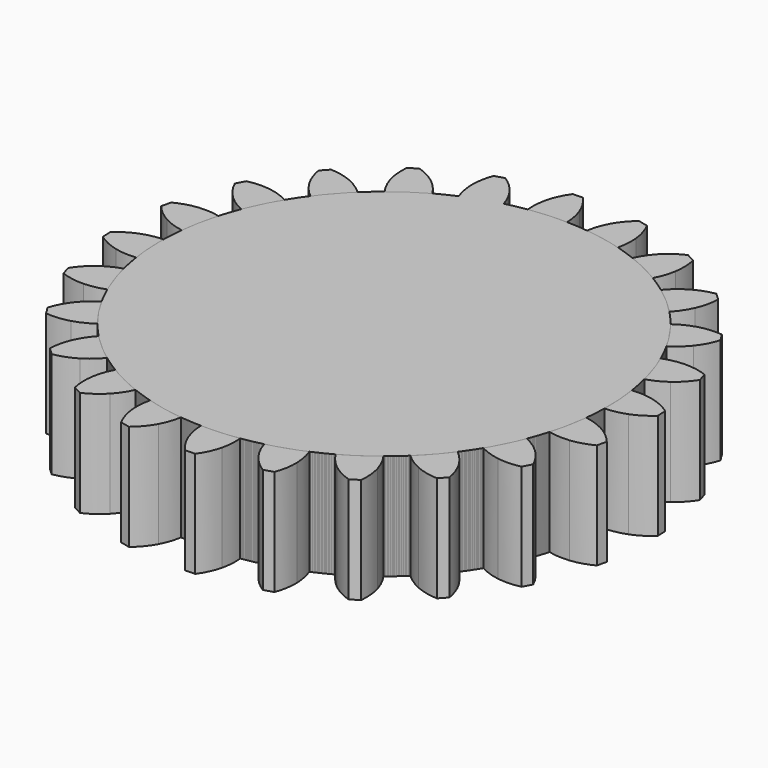
from build123d import *

# Parameters (mm, degrees)
F1_DEPTH = 25.4
F2_COUNT = 24
F2_ANGLE = 345


with BuildPart() as f1:
    # F0 (on Top) → F1 (new body)
    with BuildSketch(Plane.XY):
        with BuildLine():
            ThreePointArc((-7.985009, 53.124246), (-35.049844, -40.711844), (53.721, 0))
            ThreePointArc((53.721, 0), (38.332308, 37.637482), (0.982591, 53.712013))
            ThreePointArc((0.982591, 53.712013), (-3.513522, 53.605979), (-7.985009, 53.124246))
        make_face()
        with BuildLine():
            ThreePointArc((-7.985009, 53.124246), (-3.513522, 53.605979), (0.982591, 53.712013))
            ThreePointArc((0.982591, 53.712013), (0.701705, 56.234673), (0, 58.674))
            ThreePointArc((0, 58.674), (-1.253298, 61.16196), (-2.949539, 63.371817))
            ThreePointArc((-2.949539, 63.371817), (-4.125405, 63.316868), (-5.301921, 63.278271))
            ThreePointArc((-5.301921, 63.278271), (-6.724327, 60.837817), (-7.658494, 58.172036))
            ThreePointArc((-7.658494, 58.172036), (-8.035799, 55.661986), (-7.985009, 53.124246))
        make_face()
    extrude(amount=F1_DEPTH)


with BuildPart() as f2_1:
    # F2: instance of F1
    add(f1.part.rotate(Axis((0, 0, 0), (0, 0, -1)), 1 * F2_ANGLE / (F2_COUNT - 1)))


with BuildPart() as f2_2:
    # F2: instance of F1
    add(f1.part.rotate(Axis((0, 0, 0), (0, 0, -1)), 2 * F2_ANGLE / (F2_COUNT - 1)))


with BuildPart() as f2_3:
    # F2: instance of F1
    add(f1.part.rotate(Axis((0, 0, 0), (0, 0, -1)), 3 * F2_ANGLE / (F2_COUNT - 1)))


with BuildPart() as f2_4:
    # F2: instance of F1
    add(f1.part.rotate(Axis((0, 0, 0), (0, 0, -1)), 4 * F2_ANGLE / (F2_COUNT - 1)))


with BuildPart() as f2_5:
    # F2: instance of F1
    add(f1.part.rotate(Axis((0, 0, 0), (0, 0, -1)), 5 * F2_ANGLE / (F2_COUNT - 1)))


with BuildPart() as f2_6:
    # F2: instance of F1
    add(f1.part.rotate(Axis((0, 0, 0), (0, 0, -1)), 6 * F2_ANGLE / (F2_COUNT - 1)))


with BuildPart() as f2_7:
    # F2: instance of F1
    add(f1.part.rotate(Axis((0, 0, 0), (0, 0, -1)), 7 * F2_ANGLE / (F2_COUNT - 1)))


with BuildPart() as f2_8:
    # F2: instance of F1
    add(f1.part.rotate(Axis((0, 0, 0), (0, 0, -1)), 8 * F2_ANGLE / (F2_COUNT - 1)))


with BuildPart() as f2_9:
    # F2: instance of F1
    add(f1.part.rotate(Axis((0, 0, 0), (0, 0, -1)), 9 * F2_ANGLE / (F2_COUNT - 1)))


with BuildPart() as f2_10:
    # F2: instance of F1
    add(f1.part.rotate(Axis((0, 0, 0), (0, 0, -1)), 10 * F2_ANGLE / (F2_COUNT - 1)))


with BuildPart() as f2_11:
    # F2: instance of F1
    add(f1.part.rotate(Axis((0, 0, 0), (0, 0, -1)), 11 * F2_ANGLE / (F2_COUNT - 1)))


with BuildPart() as f2_12:
    # F2: instance of F1
    add(f1.part.rotate(Axis((0, 0, 0), (0, 0, -1)), 12 * F2_ANGLE / (F2_COUNT - 1)))


with BuildPart() as f2_13:
    # F2: instance of F1
    add(f1.part.rotate(Axis((0, 0, 0), (0, 0, -1)), 13 * F2_ANGLE / (F2_COUNT - 1)))


with BuildPart() as f2_14:
    # F2: instance of F1
    add(f1.part.rotate(Axis((0, 0, 0), (0, 0, -1)), 14 * F2_ANGLE / (F2_COUNT - 1)))


with BuildPart() as f2_15:
    # F2: instance of F1
    add(f1.part.rotate(Axis((0, 0, 0), (0, 0, -1)), 15 * F2_ANGLE / (F2_COUNT - 1)))


with BuildPart() as f2_16:
    # F2: instance of F1
    add(f1.part.rotate(Axis((0, 0, 0), (0, 0, -1)), 16 * F2_ANGLE / (F2_COUNT - 1)))


with BuildPart() as f2_17:
    # F2: instance of F1
    add(f1.part.rotate(Axis((0, 0, 0), (0, 0, -1)), 17 * F2_ANGLE / (F2_COUNT - 1)))


with BuildPart() as f2_18:
    # F2: instance of F1
    add(f1.part.rotate(Axis((0, 0, 0), (0, 0, -1)), 18 * F2_ANGLE / (F2_COUNT - 1)))


with BuildPart() as f2_19:
    # F2: instance of F1
    add(f1.part.rotate(Axis((0, 0, 0), (0, 0, -1)), 19 * F2_ANGLE / (F2_COUNT - 1)))


with BuildPart() as f2_20:
    # F2: instance of F1
    add(f1.part.rotate(Axis((0, 0, 0), (0, 0, -1)), 20 * F2_ANGLE / (F2_COUNT - 1)))


with BuildPart() as f2_21:
    # F2: instance of F1
    add(f1.part.rotate(Axis((0, 0, 0), (0, 0, -1)), 21 * F2_ANGLE / (F2_COUNT - 1)))


with BuildPart() as f2_22:
    # F2: instance of F1
    add(f1.part.rotate(Axis((0, 0, 0), (0, 0, -1)), 22 * F2_ANGLE / (F2_COUNT - 1)))


with BuildPart() as f2_23:
    # F2: instance of F1
    add(f1.part.rotate(Axis((0, 0, 0), (0, 0, -1)), 23 * F2_ANGLE / (F2_COUNT - 1)))


solid = Compound([f1.part, f2_1.part, f2_2.part, f2_3.part, f2_4.part, f2_5.part, f2_6.part, f2_7.part, f2_8.part, f2_9.part, f2_10.part, f2_11.part, f2_12.part, f2_13.part, f2_14.part, f2_15.part, f2_16.part, f2_17.part, f2_18.part, f2_19.part, f2_20.part, f2_21.part, f2_22.part, f2_23.part])
